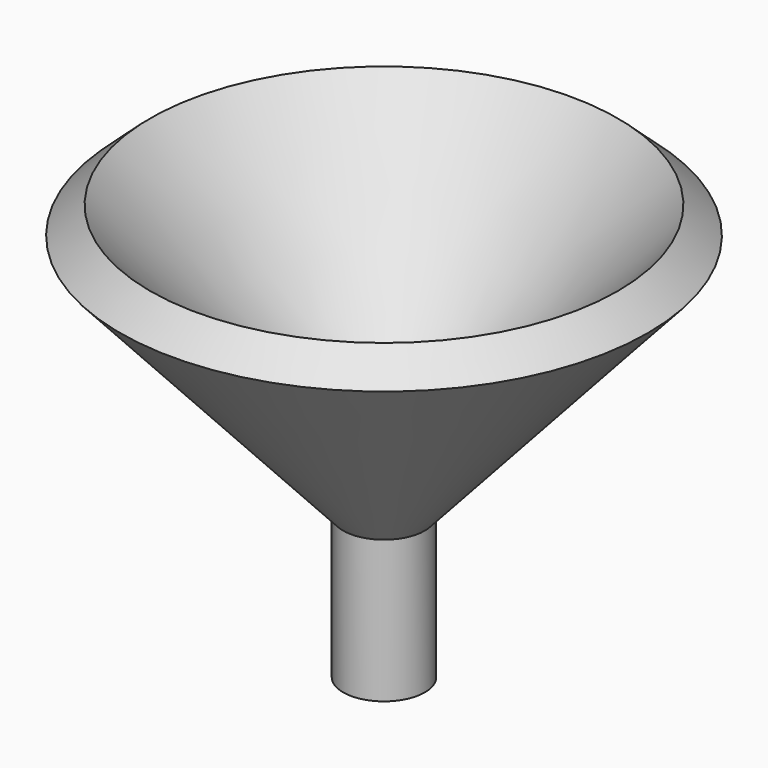
from build123d import *

# Parameters (mm, degrees)
F2_R     = 2.66294
F3_DEPTH = 101.6


with BuildPart() as f1:
    # F0 (on Front) → F1 (revolve)
    with BuildSketch(Plane.XZ):
        Polygon((-42.426284, 0), (-39.190944, 0), (-39.190944, 11.280479), (-21.514319, 30.817807), (-23.895583, 32.972283), (-42.426284, 12.490977), align=None)
    revolve(axis=Axis((-42.426284, 0, 6.245489), (0, 0, -1)))

    # F2 (on face) → F3 (cut)
    with BuildSketch(Plane(origin=(0, 0, 0), x_dir=(1, 0, 0), z_dir=(0, 0, -1))):
        with Locations((-42.426284, 0)):
            Circle(F2_R)
    extrude(amount=-F3_DEPTH, mode=Mode.SUBTRACT)


solid = f1.part
